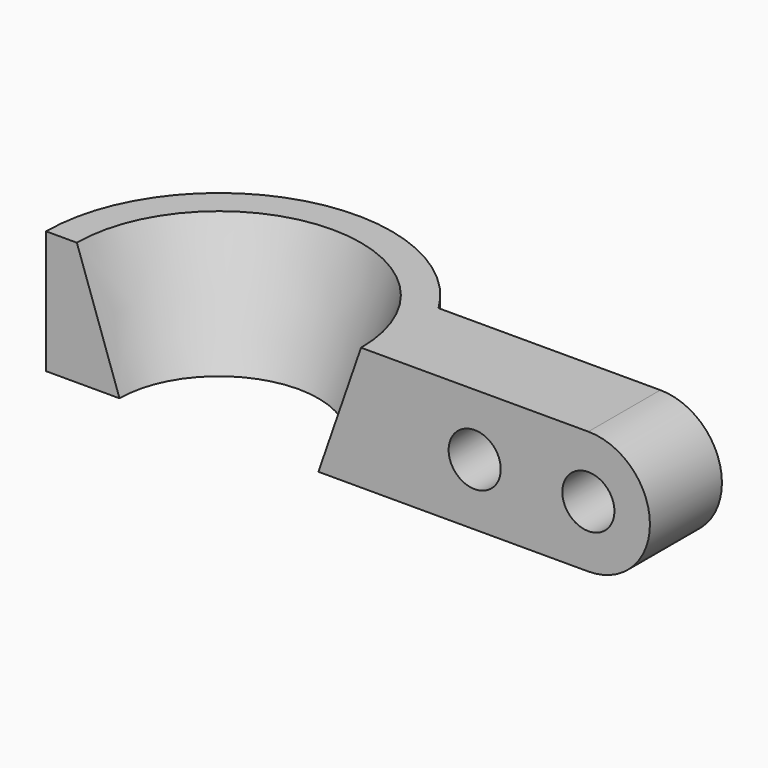
from build123d import *

# Parameters (mm, degrees)
F1_ANGLE = 180
F2_R     = 11
F3_DEPTH = 38


with BuildPart() as f1:
    # F0 (on Front) → F1 (revolve)
    with BuildSketch(Plane.XZ):
        Polygon((-73, 52), (-73, 0), (-42, 0), (-60, 52), align=None)
    revolve(axis=Axis((0, 0, 8.676963), (0, 0, -1)), revolution_arc=F1_ANGLE)

    # F2 (on face) → F3 (join)
    with BuildSketch(Plane.XZ):
        with BuildLine():
            Line((73, 52), (73, 0))
            Line((73, 0), (156, 0))
            ThreePointArc((156, 0), (182, 26), (156, 52))
            Line((156, 52), (73, 52))
        make_face()
        with Locations((108, 26)):
            Circle(F2_R, mode=Mode.SUBTRACT)
        with Locations((156, 26)):
            Circle(F2_R, mode=Mode.SUBTRACT)
        Polygon((60, 52), (42, 0), (73, 0), (73, 52), align=None)
    extrude(amount=-F3_DEPTH)


solid = f1.part
